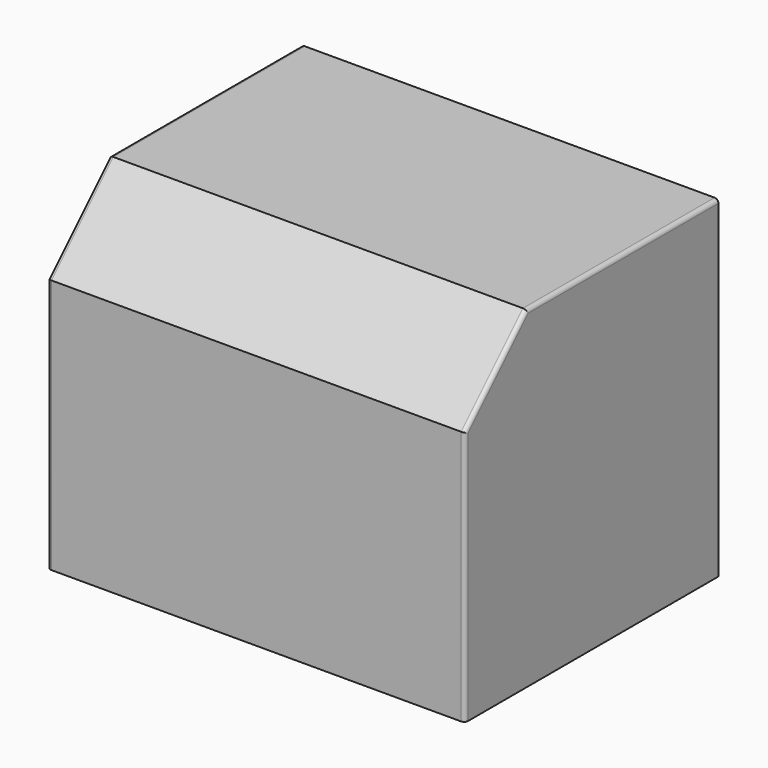
from build123d import *

# Parameters (mm, degrees)
F0_W     = 1371.6
F0_H     = 1041.4
F1_DEPTH = 1092.2
F2_SIZE  = 254
F3_R     = 12.7


with BuildPart() as f1:
    # F0 (on Top) → F1 (new body)
    with BuildSketch(Plane.XY):
        Rectangle(F0_W, F0_H)
    extrude(amount=F1_DEPTH)

    # F2
    f2_edges = [f1.edges().sort_by_distance(p)[0] for p in [
        (0, -520.7, 1092.2),
    ]]
    chamfer(f2_edges, length=F2_SIZE)

    # F3
    f3_edges = [f1.edges().sort_by_distance(p)[0] for p in [
        (685.8, 127, 1092.2),
        (685.8, -393.7, 965.2),
        (685.8, -520.7, 419.1),
        (-685.8, 127, 1092.2),
        (-685.8, -393.7, 965.2),
        (-685.8, -520.7, 419.1),
    ]]
    fillet(f3_edges, radius=F3_R)


solid = f1.part
